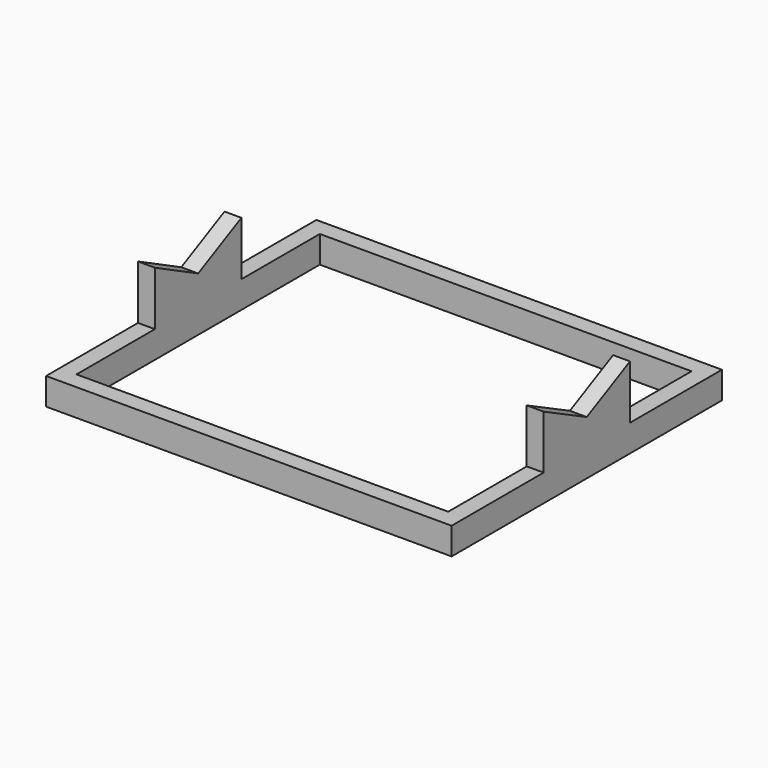
from build123d import *

# Parameters (mm, degrees)
F0_W     = 60
F0_H     = 50
F0_W_2   = 55
F0_H_2   = 45
F1_DEPTH = 4
F3_DEPTH = 2.5
F5_DEPTH = 2.5


with BuildPart() as f1:
    # F0 (on Top) → F1 (new body)
    with BuildSketch(Plane.XY):
        Rectangle(F0_W, F0_H)
        Rectangle(F0_W_2, F0_H_2, mode=Mode.SUBTRACT)
    extrude(amount=F1_DEPTH)

    # F2 (on face) → F3 (join)
    with BuildSketch(Plane(origin=(-30, 0, 0), x_dir=(0, -1, 0), z_dir=(-1, 0, 0))):
        Polygon((-8, 12), (-8, 4), (8, 4), (8, 12), (0, 8), align=None)
    extrude(amount=-F3_DEPTH)

    # F4 (on face) → F5 (join)
    with BuildSketch(Plane.YZ.offset(30)):
        Polygon((-7.976269, 11.944397), (-7.976269, 4), (7.995203, 4), (7.995203, 11.999263), (0, 7.997541), align=None)
    extrude(amount=-F5_DEPTH)


solid = f1.part
